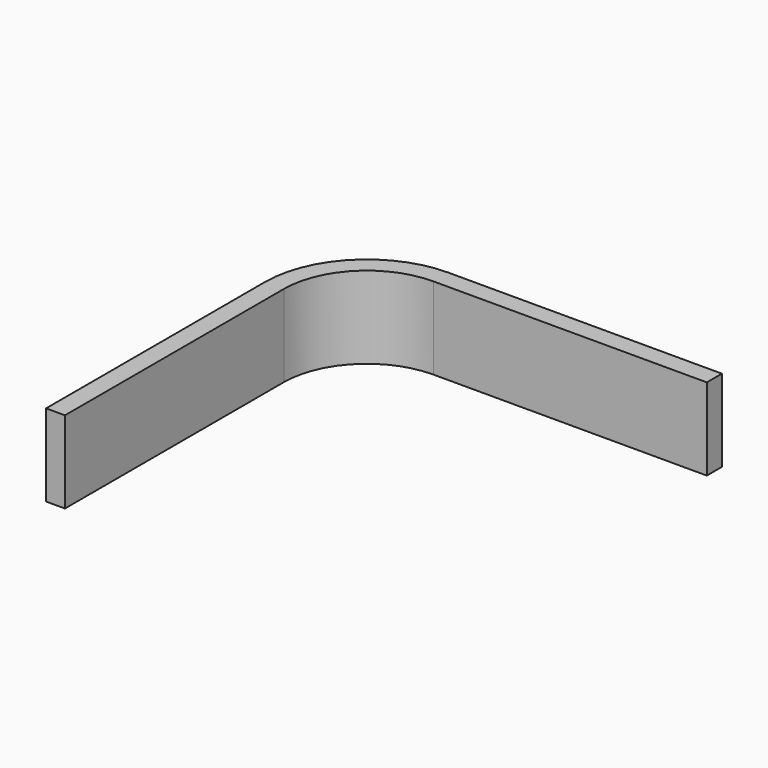
from build123d import *

# Parameters (mm, degrees)
SKETCH001_W = 1.38
SKETCH001_H = 6


with BuildPart() as part:
    # AdditivePipe: sweep along a path in Sketch002
    with BuildLine(Plane.XY) as additivepipe_path:
        Line((27.45, 6.07), (7.45, 6.07))
        ThreePointArc((7.45, 6.07), (3.157862, 4.292138), (1.38, 0))
        Line((1.38, 0), (1.38, -20))
    # Sketch001 → AdditivePipe (sweep)
    with BuildSketch(Plane.XZ):
        with Locations((0.69, 3)):
            Rectangle(SKETCH001_W, SKETCH001_H)
    sweep(path=additivepipe_path.line)


solid = part.part
